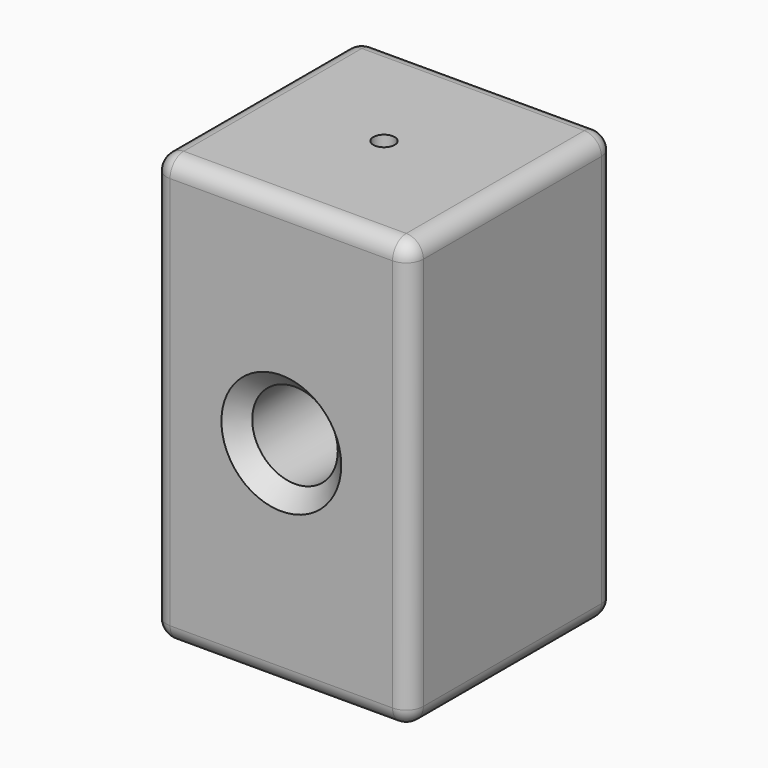
from build123d import *

# Parameters (mm, degrees)
F0_W     = 76.2
F0_H     = 76.2
F1_DEPTH = 127
F2_R     = 12.7
F3_DEPTH = 76.201
F4_SIZE  = 5.08
F5_R     = 5.08
F7_D     = 6.35


with BuildPart() as f1:
    # F0 (on Top) → F1 (new body)
    with BuildSketch(Plane.XY):
        Rectangle(F0_W, F0_H)
    extrude(amount=F1_DEPTH)

    # F2 (on face) → F3 (cut, through all)
    with BuildSketch(Plane.XZ.offset(38.1)):
        with Locations((0, 63.5)):
            Circle(F2_R)
    extrude(amount=-F3_DEPTH, mode=Mode.SUBTRACT)

    # F4
    f4_edges = [f1.edges().sort_by_distance(p)[0] for p in [
        (-12.7, -38.1, 63.5),
        (-12.7, 38.1, 63.5),
    ]]
    chamfer(f4_edges, length=F4_SIZE)

    # F5
    f5_edges = [f1.edges().sort_by_distance(p)[0] for p in [
        (0, -38.1, 127),
        (38.1, 0, 127),
        (0, 38.1, 127),
        (-38.1, 0, 127),
        (-38.1, 0, 0),
        (38.1, 0, 0),
        (0, 38.1, 0),
        (0, -38.1, 0),
        (38.1, -38.1, 63.5),
        (38.1, 38.1, 63.5),
        (-38.1, 38.1, 63.5),
        (-38.1, -38.1, 63.5),
    ]]
    fillet(f5_edges, radius=F5_R)

    # F7 (through all)
    with Locations(Plane.XY.offset(127)):
        with Locations((0, 0)):
            Hole(F7_D / 2)


solid = f1.part
